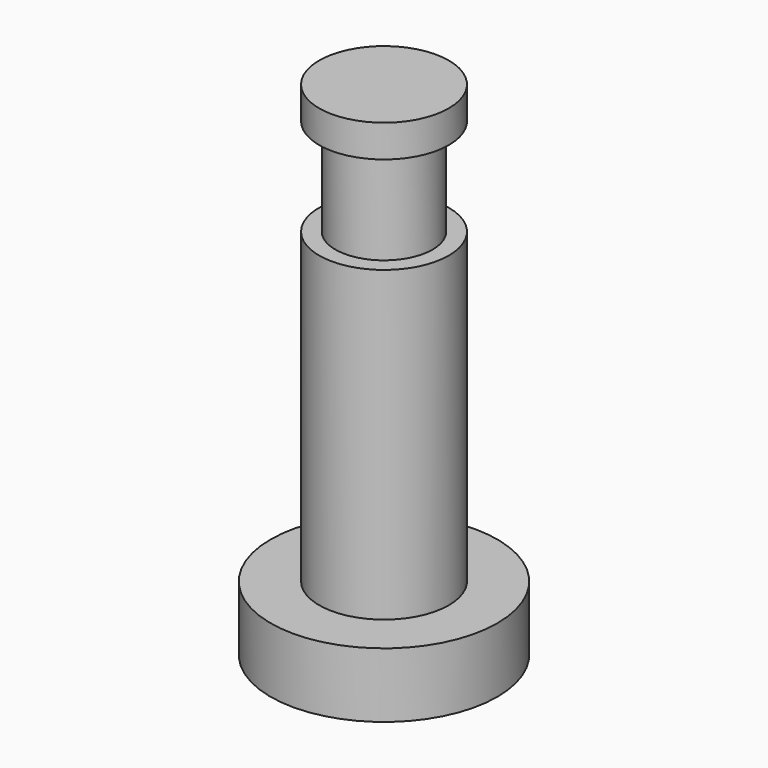
from build123d import *

# Parameters (mm, degrees)
SKETCH_R     = 3.5
PAD_DEPTH    = 2
SKETCH001_R  = 2
PAD001_DEPTH = 9.5
SKETCH002_R  = 1.5
PAD002_DEPTH = 3
SKETCH003_R  = 2
PAD003_DEPTH = 1


with BuildPart() as part:
    # Sketch → Pad (new body)
    with BuildSketch(Plane.XY):
        Circle(SKETCH_R)
    extrude(amount=PAD_DEPTH)

    # Sketch001 (on Face3 of Pad) → Pad001 (join)
    with BuildSketch(Plane.XY.offset(2)):
        Circle(SKETCH001_R)
    extrude(amount=PAD001_DEPTH)

    # Sketch002 (on Face5 of Pad001) → Pad002 (join)
    with BuildSketch(Plane.XY.offset(11.5)):
        Circle(SKETCH002_R)
    extrude(amount=PAD002_DEPTH)

    # Sketch003 (on Face7 of Pad002) → Pad003 (join)
    with BuildSketch(Plane.XY.offset(14.5)):
        Circle(SKETCH003_R)
    extrude(amount=PAD003_DEPTH)


solid = part.part
